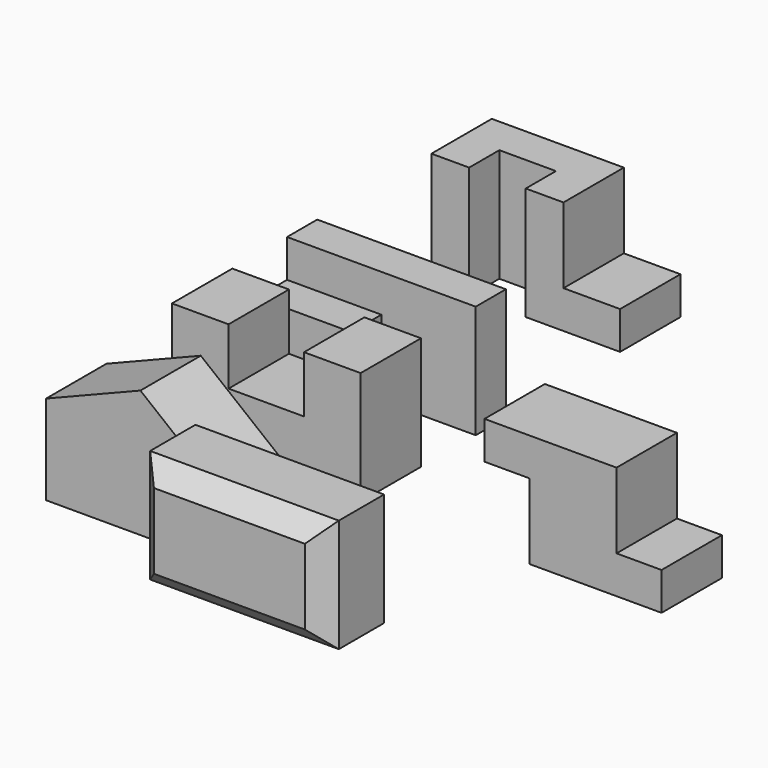
from build123d import *

# Parameters (mm, degrees)
F1_DEPTH  = 101.6
F3_DEPTH  = 254
F4_W      = 50.8
F4_H      = 101.6
F5_DEPTH  = 127
F7_DEPTH  = 152.4
F9_W      = 76.2
F9_H      = 101.6
F10_DEPTH = 101.6
F12_DEPTH = 101.6
F14_DEPTH = 101.6
F15_W     = 254
F15_H     = 101.6
F16_DEPTH = 152.4
F17_SIZE  = 25.4


with BuildPart() as f1:
    # F0 (on Front) → F1 (new body)
    with BuildSketch(Plane.XZ):
        Polygon((0, 152.4), (0, 0), (254, 0), (254, 152.4), (177.8, 152.4), (177.8, 76.2), (76.2, 76.2), (76.2, 152.4), align=None)
    extrude(amount=-F1_DEPTH)

    # F13 (on Front) → F14 (join)
    with BuildSketch(Plane.XZ):
        Polygon((-88.213, 52.231071), (-88.213, -68.304876), (165.787, -68.304876), (165.787, 1.431071), (38.787, 103.031071), align=None)
    extrude(amount=F14_DEPTH)


with BuildPart() as f3:
    # F2 (on Right) → F3 (new body)
    with BuildSketch(Plane.YZ):
        Polygon((142.881401, 0), (170.590496, 0), (244.481401, 0), (244.481401, 152.4), (193.681401, 152.4), (193.681401, 101.6), (142.881401, 101.6), align=None)
    extrude(amount=F3_DEPTH)

    # F4 (on face) → F5 (cut)
    with BuildSketch(Plane.YZ.offset(254)):
        with Locations((168.281401, 50.8)):
            Rectangle(F4_W, F4_H)
    extrude(amount=-F5_DEPTH, mode=Mode.SUBTRACT)


with BuildPart() as f7:
    # F6 (on Top) → F7 (new body)
    with BuildSketch(Plane.XY):
        Polygon((0, 538.272403), (0, 436.672403), (50.8, 436.672403), (50.8, 487.472403), (127, 487.472403), (127, 436.672403), (254, 436.672403), (254, 538.272403), align=None)
    extrude(amount=F7_DEPTH)

    # F9 (on face) → F10 (cut)
    with BuildSketch(Plane.XZ.offset(-436.672403)):
        with Locations((215.9, 101.6)):
            Rectangle(F9_W, F9_H)
    extrude(amount=-F10_DEPTH, mode=Mode.SUBTRACT)


with BuildPart() as f12:
    # F11 (on Front) → F12 (new body)
    with BuildSketch(Plane.XZ):
        Polygon((481.389741, 101.6), (481.389741, 0), (659.189741, 0), (659.189741, 50.8), (598.576099, 50.8), (598.576099, 152.4), (420.776099, 152.4), (420.776099, 101.6), align=None)
    extrude(amount=-F12_DEPTH)


with BuildPart() as f16:
    # F15 (on Top) → F16 (new body)
    with BuildSketch(Plane.XY):
        with Locations((318.91389, -251.207128)):
            Rectangle(F15_W, F15_H)
    extrude(amount=F16_DEPTH)

    # F17
    f17_edges = [f16.edges().sort_by_distance(p)[0] for p in [
        (191.91389, -302.007128, 76.2),
        (445.91389, -302.007128, 76.2),
        (318.91389, -302.007128, 0),
        (318.91389, -302.007128, 152.4),
    ]]
    chamfer(f17_edges, length=F17_SIZE)


solid = Compound([f1.part, f3.part, f7.part, f12.part, f16.part])
